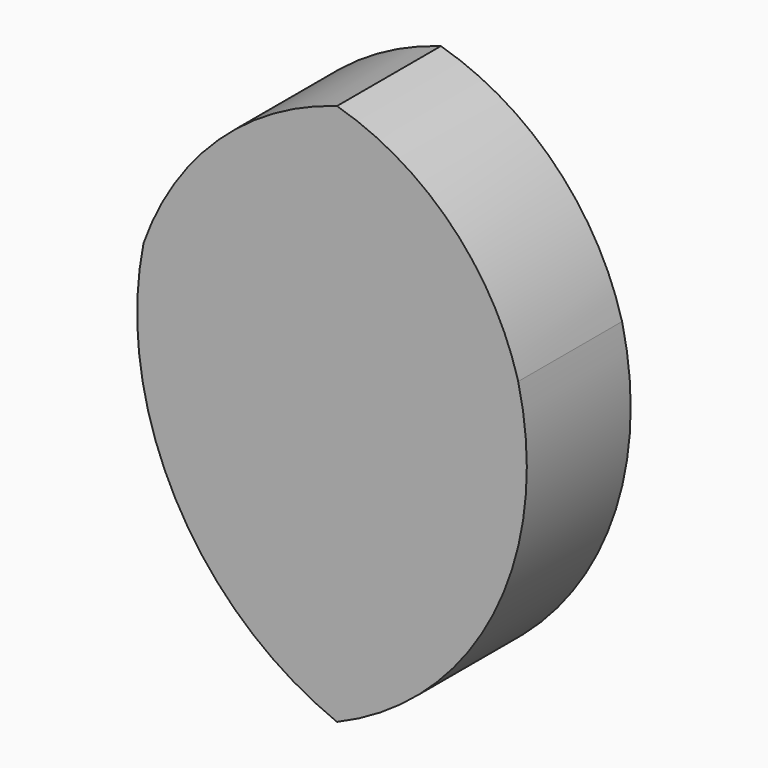
from build123d import *

# Parameters (mm, degrees)
F1_DEPTH = 25


with BuildPart() as f1:
    # F0 (on Front) → F1 (new body)
    with BuildSketch(Plane.XZ):
        with BuildLine():
            ThreePointArc((34.889244, 0), (22.086014, 22.253062), (0, 35.342351))
            ThreePointArc((0, 35.342351), (-22.868469, 22.145563), (-37.2454, 0))
            ThreePointArc((-37.2454, 0), (-31.144463, -41.280622), (0, -69.053516))
            ThreePointArc((0, -69.053516), (30.130473, -40.936276), (34.889244, 0))
        make_face()
    extrude(amount=F1_DEPTH)


solid = f1.part
